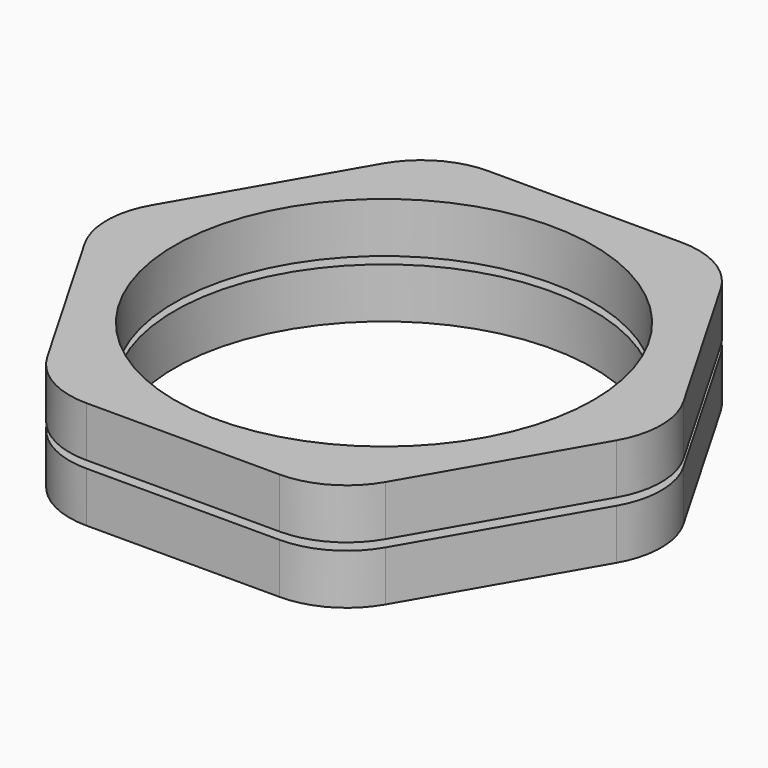
from build123d import *

# Parameters (mm, degrees)
F0_R     = 12.5
F1_DEPTH = 3
F2_R     = 5


with BuildPart() as f1:
    # F0 (on Top) → F1 (new body)
    with BuildSketch(Plane.XY):
        Polygon((8.660254, 15), (-8.660254, 15), (-17.320508, 0), (-8.660254, -15), (8.660254, -15), (17.320508, 0), align=None)
        Circle(F0_R, mode=Mode.SUBTRACT)
    extrude(amount=F1_DEPTH)

    # F2
    f2_edges = [f1.edges().sort_by_distance(p)[0] for p in [
        (-17.320508, 0, 1.5),
        (-8.660254, -15, 1.5),
        (8.660254, -15, 1.5),
        (17.320508, 0, 1.5),
        (8.660254, 15, 1.5),
        (-8.660254, 15, 1.5),
    ]]
    fillet(f2_edges, radius=F2_R)


with BuildPart() as f1_1:
    # F3: moved
    add(f1.part.moved(Location((0, 0, 0.21875))))


with BuildPart() as f4_1:
    # F4: instance of F1
    add(f1_1.part.mirror(Plane.XY))


solid = Compound([f1_1.part, f4_1.part])
